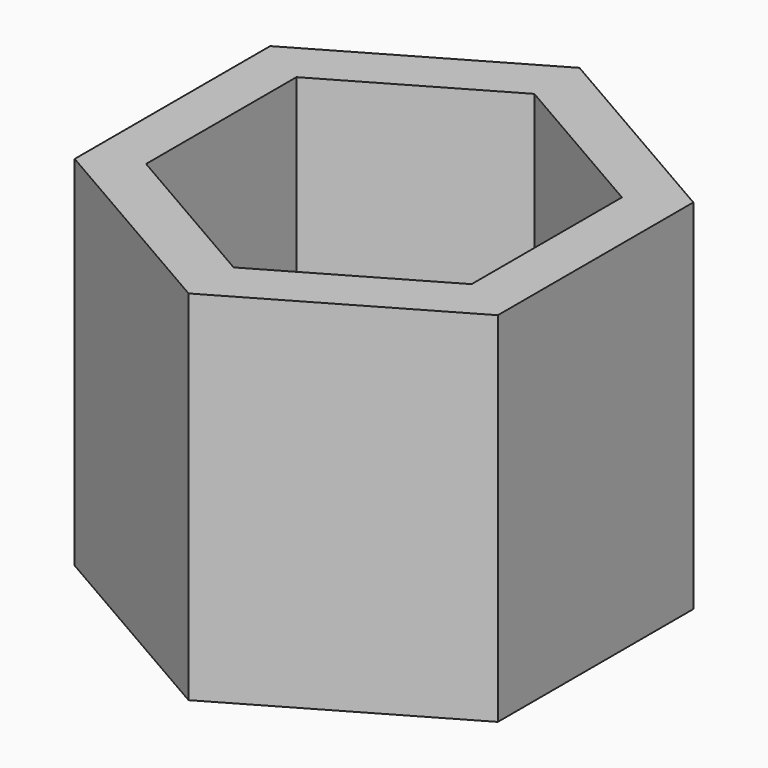
from build123d import *

# Parameters (mm, degrees)
F1_DEPTH = 10
F2_DEPTH = 100


with BuildPart() as f1:
    # F0 (on Top) → F1 (new body)
    with BuildSketch(Plane.XY):
        Polygon((0, 75.055535), (-65, 37.527767), (-65, -37.527767), (0, -75.055535), (65, -37.527767), (65, 37.527767), align=None)
        Polygon((0, 57.735027), (50, 28.867513), (50, -28.867513), (0, -57.735027), (-50, -28.867513), (-50, 28.867513), align=None, mode=Mode.SUBTRACT)
        Polygon((50, -28.867513), (50, 28.867513), (0, 57.735027), (-50, 28.867513), (-50, -28.867513), (0, -57.735027), align=None)
    extrude(amount=-F1_DEPTH)

    # F0 (on Top) → F2 (join)
    with BuildSketch(Plane.XY):
        Polygon((0, 75.055535), (-65, 37.527767), (-65, -37.527767), (0, -75.055535), (65, -37.527767), (65, 37.527767), align=None)
        Polygon((0, 57.735027), (50, 28.867513), (50, -28.867513), (0, -57.735027), (-50, -28.867513), (-50, 28.867513), align=None, mode=Mode.SUBTRACT)
    extrude(amount=F2_DEPTH)


solid = f1.part
